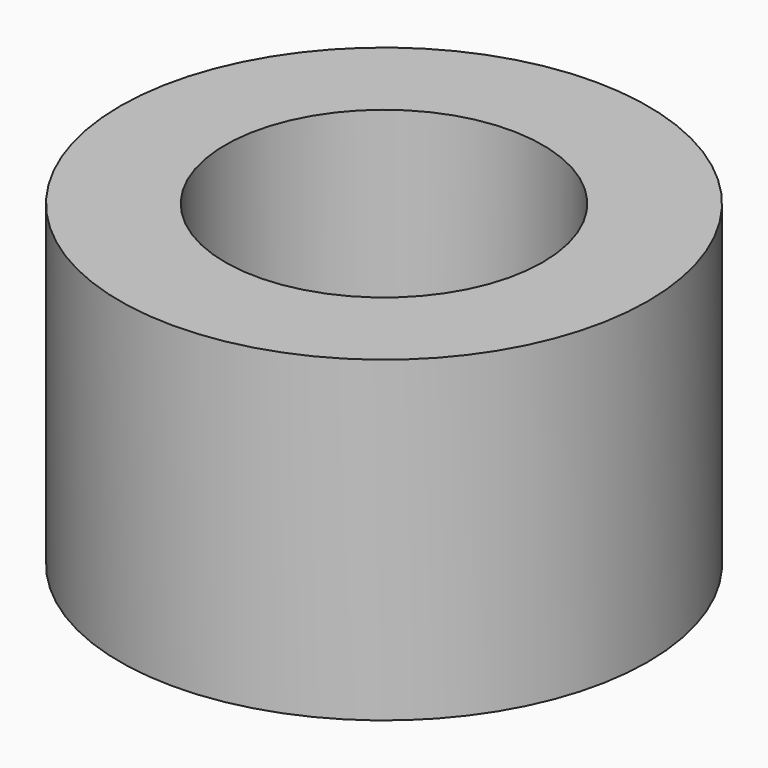
from build123d import *

# Parameters (mm, degrees)
F0_R     = 66.5
F0_R_2   = 40
F1_DEPTH = 80
F2_DEPTH = 25


with BuildPart() as f1:
    # F0 (on Top) → F1 (new body)
    with BuildSketch(Plane.XY):
        Circle(F0_R)
        Circle(F0_R_2, mode=Mode.SUBTRACT)
    extrude(amount=F1_DEPTH)

    # F0 (on Top) → F2 (join)
    with BuildSketch(Plane.XY):
        Circle(F0_R)
        Circle(F0_R_2, mode=Mode.SUBTRACT)
    extrude(amount=F2_DEPTH)


solid = f1.part
